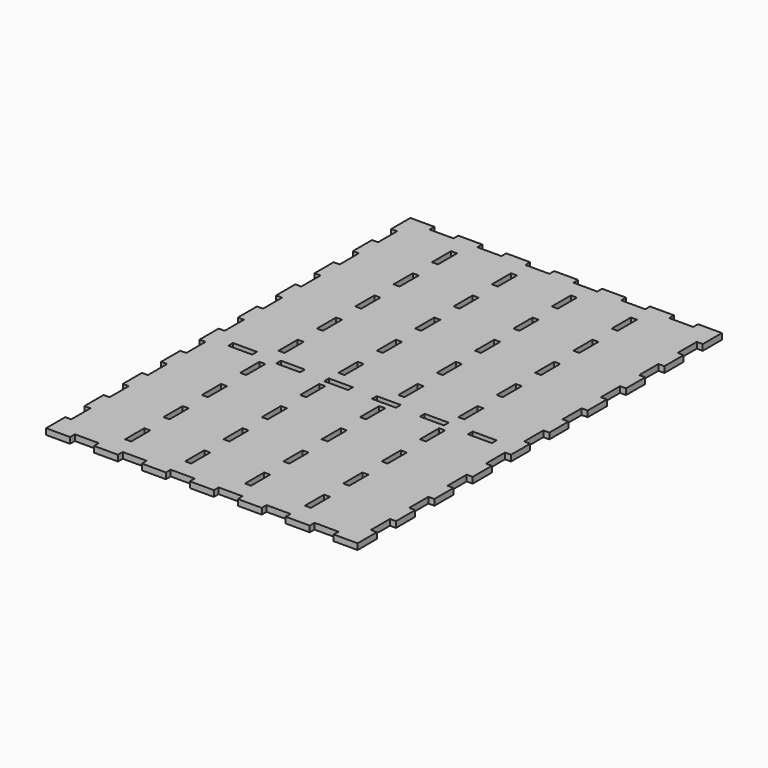
from build123d import *

# Parameters (mm, degrees)
F0_W     = 330.2
F0_H     = 482.6
F1_DEPTH = 6.35
F2_W     = 6.35
F2_H     = 25.4
F2_W_2   = 25.4
F2_H_2   = 6.35
F3_DEPTH = 6.35
F4_W     = 6.35
F4_H     = 25.4
F5_DEPTH = 6.35


with BuildPart() as f1:
    # F0 (on Top) → F1 (new body)
    with BuildSketch(Plane.XY):
        Rectangle(F0_W, F0_H)
    extrude(amount=F1_DEPTH)

    # F2 (on face) → F3 (cut, through all)
    with BuildSketch(Plane.XY.offset(6.35)):
        with Locations((161.925, -203.2)):
            Rectangle(F2_W, F2_H)
        with Locations((161.925, -152.4)):
            Rectangle(F2_W, F2_H)
        with Locations((161.925, -101.6)):
            Rectangle(F2_W, F2_H)
        with Locations((161.925, -50.8)):
            Rectangle(F2_W, F2_H)
        with Locations((161.925, 0)):
            Rectangle(F2_W, F2_H)
        with Locations((161.925, 50.8)):
            Rectangle(F2_W, F2_H)
        with Locations((161.925, 101.6)):
            Rectangle(F2_W, F2_H)
        with Locations((161.925, 152.4)):
            Rectangle(F2_W, F2_H)
        with Locations((161.925, 203.2)):
            Rectangle(F2_W, F2_H)
        with Locations((-161.925, -203.2)):
            Rectangle(F2_W, F2_H)
        with Locations((-161.925, -152.4)):
            Rectangle(F2_W, F2_H)
        with Locations((-161.925, 0)):
            Rectangle(F2_W, F2_H)
        with Locations((-161.925, -50.8)):
            Rectangle(F2_W, F2_H)
        with Locations((-161.925, 50.8)):
            Rectangle(F2_W, F2_H)
        with Locations((-161.925, 203.2)):
            Rectangle(F2_W, F2_H)
        with Locations((-161.925, 101.6)):
            Rectangle(F2_W, F2_H)
        with Locations((-161.925, -101.6)):
            Rectangle(F2_W, F2_H)
        with Locations((-161.925, 152.4)):
            Rectangle(F2_W, F2_H)
        with Locations((-127, -238.125)):
            Rectangle(F2_W_2, F2_H_2)
        with Locations((-127, -28.575)):
            Rectangle(F2_W_2, F2_H_2)
        with Locations((-76.2, -238.125)):
            Rectangle(F2_W_2, F2_H_2)
        with Locations((-76.2, -28.575)):
            Rectangle(F2_W_2, F2_H_2)
        with Locations((-25.4, -238.125)):
            Rectangle(F2_W_2, F2_H_2)
        with Locations((-25.4, -28.575)):
            Rectangle(F2_W_2, F2_H_2)
        with Locations((25.4, -238.125)):
            Rectangle(F2_W_2, F2_H_2)
        with Locations((25.4, -28.575)):
            Rectangle(F2_W_2, F2_H_2)
        with Locations((76.2, -238.125)):
            Rectangle(F2_W_2, F2_H_2)
        with Locations((76.2, -28.575)):
            Rectangle(F2_W_2, F2_H_2)
        with Locations((127, -238.125)):
            Rectangle(F2_W_2, F2_H_2)
        with Locations((127, -28.575)):
            Rectangle(F2_W_2, F2_H_2)
        with Locations((-127, 238.125)):
            Rectangle(F2_W_2, F2_H_2)
        with Locations((-76.2, 238.125)):
            Rectangle(F2_W_2, F2_H_2)
        with Locations((-25.4, 238.125)):
            Rectangle(F2_W_2, F2_H_2)
        with Locations((76.2, 238.125)):
            Rectangle(F2_W_2, F2_H_2)
        with Locations((127, 238.125)):
            Rectangle(F2_W_2, F2_H_2)
        with Locations((25.4, 238.125)):
            Rectangle(F2_W_2, F2_H_2)
    extrude(amount=-F3_DEPTH, mode=Mode.SUBTRACT)

    # F4 (on face) → F5 (cut, through all)
    with BuildSketch(Plane.XY.offset(6.35)):
        with Locations((-98.425, -203.2)):
            Rectangle(F4_W, F4_H)
        with Locations((-98.425, -152.4)):
            Rectangle(F4_W, F4_H)
        with Locations((-98.425, -101.6)):
            Rectangle(F4_W, F4_H)
        with Locations((-98.425, -50.8)):
            Rectangle(F4_W, F4_H)
        with Locations((-98.425, 0)):
            Rectangle(F4_W, F4_H)
        with Locations((-98.425, 50.8)):
            Rectangle(F4_W, F4_H)
        with Locations((-98.425, 101.6)):
            Rectangle(F4_W, F4_H)
        with Locations((-98.425, 152.4)):
            Rectangle(F4_W, F4_H)
        with Locations((-98.425, 203.2)):
            Rectangle(F4_W, F4_H)
        with Locations((-34.925, -203.2)):
            Rectangle(F4_W, F4_H)
        with Locations((-34.925, -152.4)):
            Rectangle(F4_W, F4_H)
        with Locations((-34.925, -101.6)):
            Rectangle(F4_W, F4_H)
        with Locations((-34.925, -50.8)):
            Rectangle(F4_W, F4_H)
        with Locations((-34.925, 0)):
            Rectangle(F4_W, F4_H)
        with Locations((-34.925, 50.8)):
            Rectangle(F4_W, F4_H)
        with Locations((-34.925, 101.6)):
            Rectangle(F4_W, F4_H)
        with Locations((-34.925, 152.4)):
            Rectangle(F4_W, F4_H)
        with Locations((-34.925, 203.2)):
            Rectangle(F4_W, F4_H)
        with Locations((28.575, -203.2)):
            Rectangle(F4_W, F4_H)
        with Locations((28.575, -152.4)):
            Rectangle(F4_W, F4_H)
        with Locations((28.575, -101.6)):
            Rectangle(F4_W, F4_H)
        with Locations((28.575, -50.8)):
            Rectangle(F4_W, F4_H)
        with Locations((28.575, 0)):
            Rectangle(F4_W, F4_H)
        with Locations((28.575, 50.8)):
            Rectangle(F4_W, F4_H)
        with Locations((28.575, 101.6)):
            Rectangle(F4_W, F4_H)
        with Locations((28.575, 152.4)):
            Rectangle(F4_W, F4_H)
        with Locations((28.575, 203.2)):
            Rectangle(F4_W, F4_H)
        with Locations((92.075, -203.2)):
            Rectangle(F4_W, F4_H)
        with Locations((92.075, -152.4)):
            Rectangle(F4_W, F4_H)
        with Locations((92.075, -101.6)):
            Rectangle(F4_W, F4_H)
        with Locations((92.075, -50.8)):
            Rectangle(F4_W, F4_H)
        with Locations((92.075, 0)):
            Rectangle(F4_W, F4_H)
        with Locations((92.075, 50.8)):
            Rectangle(F4_W, F4_H)
        with Locations((92.075, 101.6)):
            Rectangle(F4_W, F4_H)
        with Locations((92.075, 152.4)):
            Rectangle(F4_W, F4_H)
        with Locations((92.075, 203.2)):
            Rectangle(F4_W, F4_H)
    extrude(amount=-F5_DEPTH, mode=Mode.SUBTRACT)


solid = f1.part
